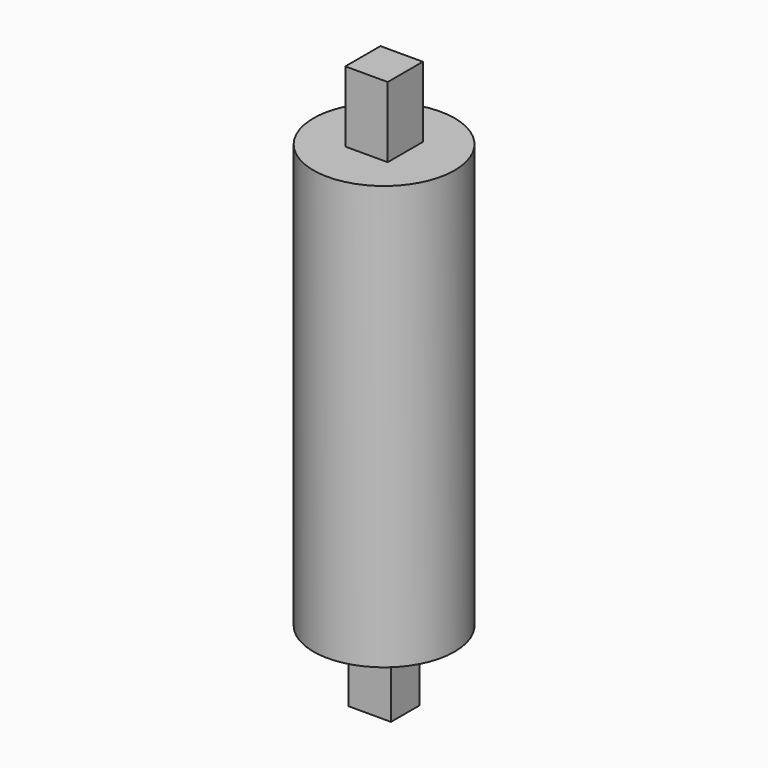
from build123d import *

# Parameters (mm, degrees)
F0_R     = 25
F1_DEPTH = 150
F2_W     = 15
F2_H     = 15.545452
F3_DEPTH = 25
F4_W     = 15
F4_H     = 12.647062
F5_DEPTH = 25


with BuildPart() as f1:
    # F0 (on Top) → F1 (new body)
    with BuildSketch(Plane.XY):
        Circle(F0_R)
    extrude(amount=F1_DEPTH)

    # F2 (on face) → F3 (join)
    with BuildSketch(Plane.XY.offset(150)):
        Rectangle(F2_W, F2_H)
    extrude(amount=F3_DEPTH)

    # F4 (on face) → F5 (join)
    with BuildSketch(Plane(origin=(0, 0, 0), x_dir=(1, 0, 0), z_dir=(0, 0, -1))):
        Rectangle(F4_W, F4_H)
    extrude(amount=F5_DEPTH)


solid = f1.part
